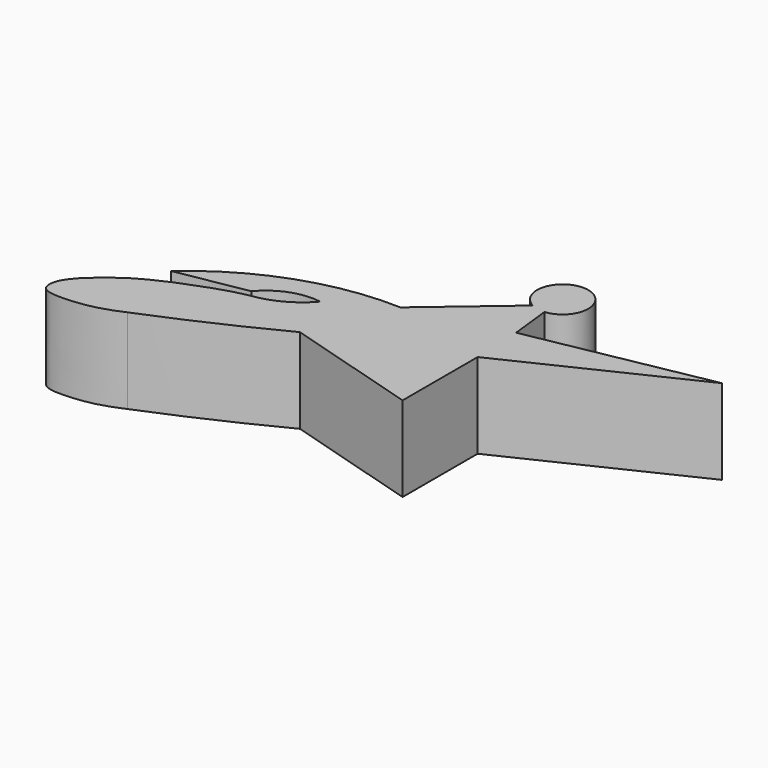
from build123d import *

# Parameters (mm, degrees)
F1_DEPTH = 10


with BuildPart() as f1:
    # F0 (on Top) → F1 (new body)
    with BuildSketch(Plane.XY):
        with BuildLine():
            Line((8.8337385535, 12.9451678731), (-0.4161137905, 5.067145372))
            ThreePointArc((-0.4161137905, 5.067145372), (-11.5983099014, 3.326443887), (-21.3406799482, -2.4318351435))
            Line((-21.3406799482, -2.4318351435), (-13.0879584157, -0.9603441519))
            ThreePointArc((-13.0879584157, -0.9603441519), (-10.2837926867, 1.027964876), (-6.8630778746, 1.3677124313))
            ThreePointArc((-6.8630778746, 1.3677124313), (-9.5573222754, -0.7619129683), (-12.8457345774, -1.7521663529))
            add(Edge.make_bspline(
                [(-19.7956541441, -4.0594065459), (-18.2490652293, -3.4476707022), (-15.5318948257, -2.3729245214), (-13.6545231909, -1.9390733473), (-12.8457345774, -1.7521663529)],
                knots=[0, 0, 0, 0, 0.569190991, 1, 1, 1, 1], degree=3))
            add(Edge.make_bspline(
                [(-19.7956541441, -4.0594065459), (-20.8264896323, -4.5234313812), (-22.9036713574, -5.4584631287), (-25.6339482959, -7.4279370192), (-28.4569804187, -10.0420679848), (-28.5782861368, -12.6549207604), (-25.7048581352, -12.9493547061), (-22.02821781, -12.4866230869), (-20.1845868464, -11.699364312), (-19.3265960439, -11.3329890442)],
                knots=[0, 0, 0, 0, 0.1500372426, 0.3023320617, 0.4617024088, 0.5740753409, 0.7000305657, 0.8603999278, 1, 1, 1, 1], degree=3))
            ThreePointArc((-19.3265960439, -11.3329890442), (-11.8536932877, -8.1001795826), (-4.5364039775, -4.5290999462))
            Line((-4.5364039775, -4.5290999462), (11.284012926, -9.2315686646))
            Line((11.284012926, -9.2315686646), (11.284012926, 1.7881100454))
            Line((11.284012926, 1.7881100454), (32.0269530877, 11.7341596461))
            Line((32.0269530877, 11.7341596461), (11.0199585953, 7.7733433617))
            Line((11.0199585953, 7.7733433617), (10.4774531109, 12.6157083387))
            ThreePointArc((10.4774531109, 12.6157083387), (10.8112783366, 18.5462817312), (8.8337385535, 12.9451678731))
        make_face()
    extrude(amount=F1_DEPTH)


solid = f1.part
